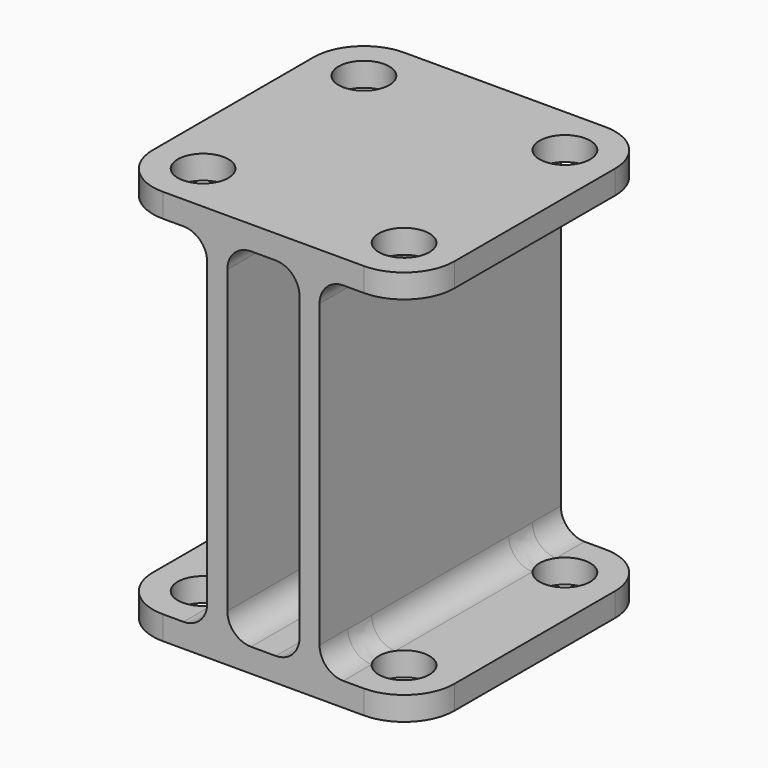
from build123d import *

# Parameters (mm, degrees)
SKETCH_R     = 3.2
PAD_DEPTH    = 3
SKETCH001_W  = 2.54
SKETCH001_H  = 38.1
PAD001_DEPTH = 44
SKETCH002_R  = 3.2
PAD002_DEPTH = 3
FILLET_R     = 3


with BuildPart() as part:
    # Sketch → Pad (new body)
    with BuildSketch(Plane.XY):
        with BuildLine():
            Line((-12.7, 19.05), (12.7, 19.05))
            ThreePointArc((19.05, 12.7), (17.190128, 17.190128), (12.7, 19.05))
            Line((19.05, 12.7), (19.05, -12.7))
            ThreePointArc((12.7, -19.05), (17.190128, -17.190128), (19.05, -12.7))
            Line((12.7, -19.05), (-12.7, -19.05))
            ThreePointArc((-19.05, -12.7), (-17.190128, -17.190128), (-12.7, -19.05))
            Line((-19.05, -12.7), (-19.05, 12.7))
            ThreePointArc((-12.7, 19.05), (-17.190128, 17.190128), (-19.05, 12.7))
        make_face()
        with Locations((-12.7, 12.7)):
            Circle(SKETCH_R, mode=Mode.SUBTRACT)
        with Locations((12.7, 12.7)):
            Circle(SKETCH_R, mode=Mode.SUBTRACT)
        with Locations((12.7, -12.7)):
            Circle(SKETCH_R, mode=Mode.SUBTRACT)
        with Locations((-12.7, -12.7)):
            Circle(SKETCH_R, mode=Mode.SUBTRACT)
    extrude(amount=PAD_DEPTH)

    # Sketch001 (on Face14 of Pad) → Pad001 (join)
    with BuildSketch(Plane.XY.offset(3)):
        with Locations((-5.83, 0)):
            Rectangle(SKETCH001_W, SKETCH001_H)
        with Locations((5.83, 0)):
            Rectangle(SKETCH001_W, SKETCH001_H)
    extrude(amount=PAD001_DEPTH)

    # Sketch002 (on Face22 of Pad001) → Pad002 (join)
    with BuildSketch(Plane.XY.offset(47)):
        with BuildLine():
            Line((-12.7, 19.05), (12.7, 19.05))
            ThreePointArc((19.05, 12.7), (17.190128, 17.190128), (12.7, 19.05))
            Line((19.05, 12.7), (19.05, -12.7))
            ThreePointArc((12.7, -19.05), (17.190128, -17.190128), (19.05, -12.7))
            Line((12.7, -19.05), (-12.7, -19.05))
            ThreePointArc((-19.05, -12.7), (-17.190128, -17.190128), (-12.7, -19.05))
            Line((-19.05, -12.7), (-19.05, 12.7))
            ThreePointArc((-12.7, 19.05), (-17.190128, 17.190128), (-19.05, 12.7))
        make_face()
        with Locations((-12.7, 12.7)):
            Circle(SKETCH002_R, mode=Mode.SUBTRACT)
        with Locations((12.7, 12.7)):
            Circle(SKETCH002_R, mode=Mode.SUBTRACT)
        with Locations((12.7, -12.7)):
            Circle(SKETCH002_R, mode=Mode.SUBTRACT)
        with Locations((-12.7, -12.7)):
            Circle(SKETCH002_R, mode=Mode.SUBTRACT)
    extrude(amount=PAD002_DEPTH)

    # Fillet
    fillet_edges = [part.edges().sort_by_distance(p)[0] for p in [
        (4.56, 0, 3),
        (-7.1, 0, 3),
        (-4.56, 0, 3),
        (7.1, 0, 3),
        (7.1, 0, 47),
        (-4.56, 0, 47),
        (4.56, 0, 47),
        (-7.1, 0, 47),
    ]]
    fillet(fillet_edges, radius=FILLET_R)


solid = part.part
